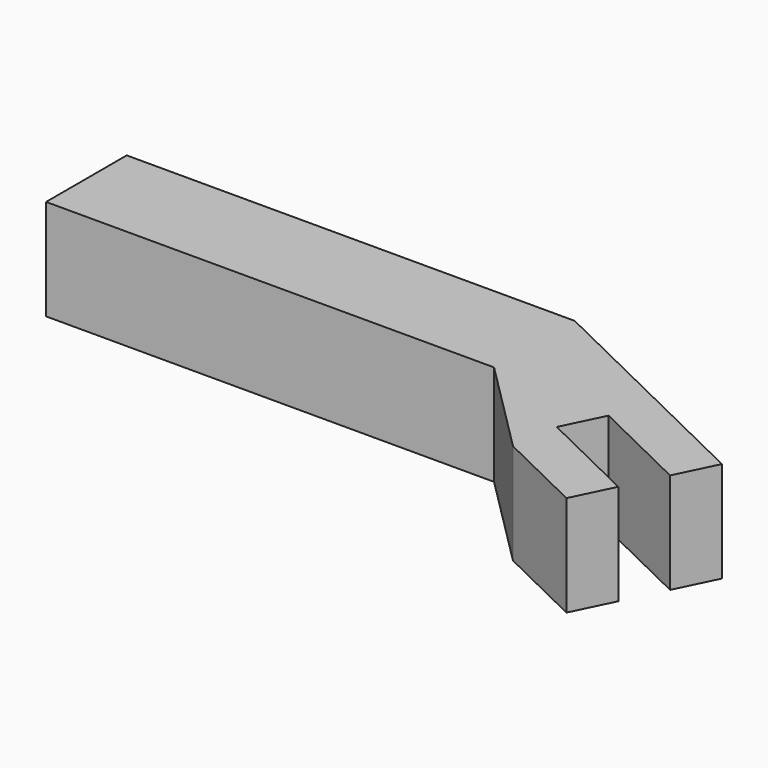
from build123d import *

# Parameters (mm, degrees)
F0_W     = 20
F0_H     = 4.5
F1_DEPTH = 4.5


with BuildPart() as f1:
    # F0 (on Top) → F1 (new body)
    with BuildSketch(Plane.XY):
        Rectangle(F0_W, F0_H)
        Polygon((10, 2.25), (10, -2.25), (14.231726, -6.481726), (18.137201, -8.382091), (19.012283, -6.583695), (14.516291, -4.395989), (15.391373, -2.597592), (19.887365, -4.785298), (20.762447, -2.986901), align=None)
    extrude(amount=F1_DEPTH)


solid = f1.part
